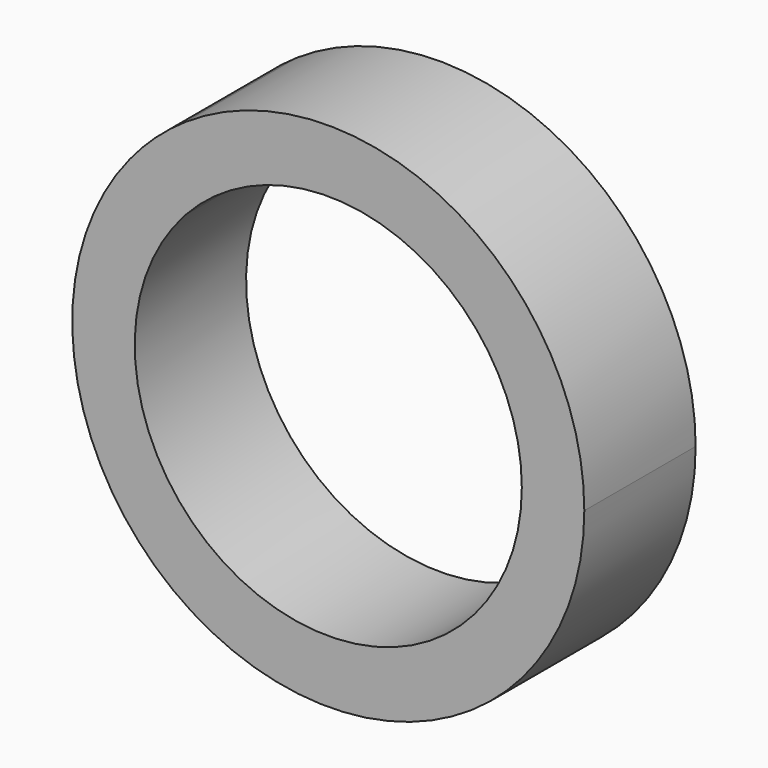
from build123d import *

# Parameters (mm, degrees)
F1_DEPTH = 25.4


with BuildPart() as f1:
    # F0 (on Front) → F1 (new body)
    with BuildSketch(Plane.XZ):
        with BuildLine():
            ThreePointArc((-36.294147, 29.438125), (-15.616893, -44.045215), (46.731877, 0))
            ThreePointArc((46.731877, 0), (21.997764, 41.230653), (-26.022176, 38.816423))
            Line((-26.022176, 38.816423), (-26.022176, 23.891008))
            Line((-26.022176, 23.891008), (-36.294147, 29.438125))
        make_face()
        with BuildLine():
            ThreePointArc((35.326108, 0), (-12.819355, -32.918051), (-26.022176, 23.891008))
            ThreePointArc((-26.022176, 23.891008), (12.819355, 32.918051), (35.326108, 0))
        make_face(mode=Mode.SUBTRACT)
        with BuildLine():
            Line((-26.022176, 23.891008), (-26.022176, 38.816423))
            ThreePointArc((-26.022176, 38.816423), (-31.509033, 34.511581), (-36.294147, 29.438125))
            Line((-36.294147, 29.438125), (-26.022176, 23.891008))
        make_face()
    extrude(amount=F1_DEPTH)


solid = f1.part
